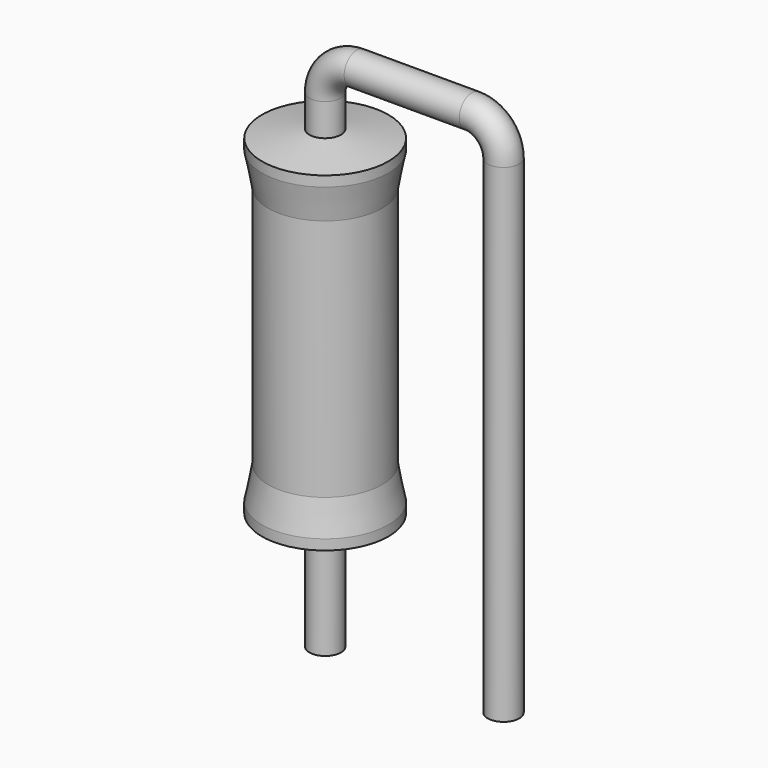
from build123d import *

# Parameters (mm, degrees)
SKETCH_R = 0.45


with BuildPart() as sweep_body:
    # Sweep: sweep along a path in Sketch001
    with BuildLine(Plane.XZ) as sweep_path:
        Line((0, -3), (0, 10.9))
        ThreePointArc((0, 10.9), (0.263608, 11.5364), (0.900011, 11.8))
        Line((0.900011, 11.8), (4.18, 11.8))
        ThreePointArc((4.18, 11.8), (4.816396, 11.536396), (5.08, 10.9))
        Line((5.08, 10.9), (5.08, -3))
    # Sketch → Sweep (sweep)
    with BuildSketch(Plane.XY.offset(-2)):
        Circle(SKETCH_R)
    sweep(path=sweep_path.line)


with BuildPart() as revolution:
    # Sketch002 → Revolution (revolve)
    with BuildSketch(Plane.XZ):
        Polygon((0, 0.1), (0, 10), (0.3375, 10), (1.8, 9.7525), (1.8, 9.46), (1.62, 8.515), (1.62, 1.585), (1.8, 0.64), (1.8, 0.3475), (0.3375, 0.1), align=None)
    revolve(axis=Axis((0, 0, 0), (0, 0, 1)))


solid = Compound([sweep_body.part, revolution.part])
